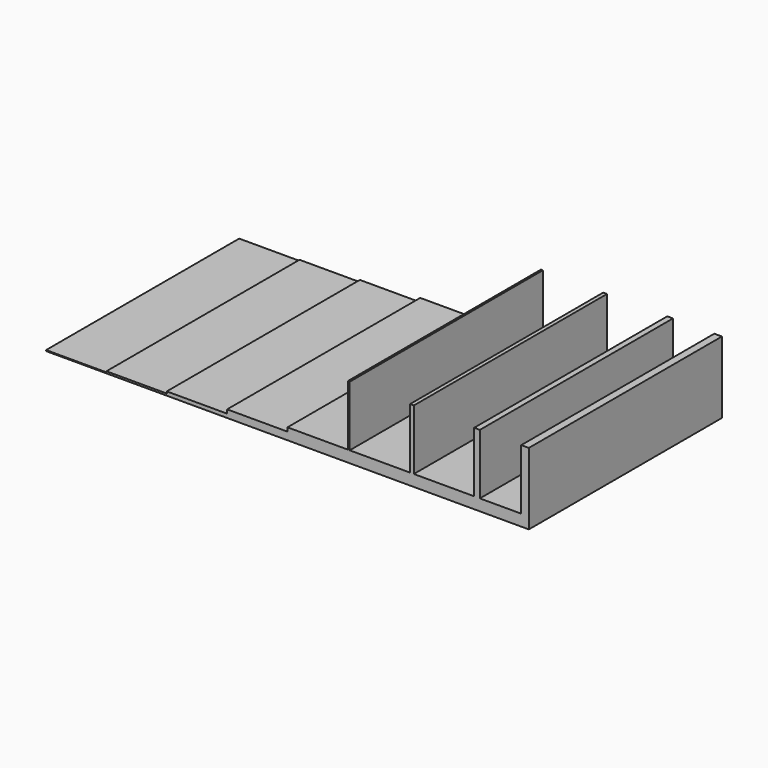
from build123d import *

# Parameters (mm, degrees)
F0_W      = 101.6
F0_H      = 50.8
F1_DEPTH  = 0.2
F2_W      = 88.9
F2_H      = 50.8
F3_DEPTH  = 0.2
F4_W      = 76.2
F4_H      = 50.8
F5_DEPTH  = 0.4
F6_W      = 63.5
F6_H      = 50.8
F7_DEPTH  = 0.8
F8_W      = 50.8
F8_H      = 50.8
F9_DEPTH  = 0.8
F10_W     = 0.4
F10_H     = 50.8
F10_W_2   = 0.8
F10_W_3   = 1.2
F10_W_4   = 1.6
F11_DEPTH = 12.7


with BuildPart() as f1:
    # F0 (on Top) → F1 (new body)
    with BuildSketch(Plane.XY):
        Rectangle(F0_W, F0_H)
    extrude(amount=F1_DEPTH)

    # F2 (on face) → F3 (join)
    with BuildSketch(Plane.XY.offset(0.2)):
        with Locations((6.35, 0)):
            Rectangle(F2_W, F2_H)
    extrude(amount=F3_DEPTH)

    # F4 (on face) → F5 (join)
    with BuildSketch(Plane.XY.offset(0.4)):
        with Locations((12.7, 0)):
            Rectangle(F4_W, F4_H)
    extrude(amount=F5_DEPTH)

    # F6 (on face) → F7 (join)
    with BuildSketch(Plane.XY.offset(0.8)):
        with Locations((19.05, 0)):
            Rectangle(F6_W, F6_H)
    extrude(amount=F7_DEPTH)

    # F8 (on face) → F9 (join)
    with BuildSketch(Plane.XY.offset(1.6)):
        with Locations((25.4, 0)):
            Rectangle(F8_W, F8_H)
    extrude(amount=F9_DEPTH)

    # F10 (on face) → F11 (join)
    with BuildSketch(Plane.XY.offset(2.4)):
        with Locations((12.9, 0)):
            Rectangle(F10_W, F10_H)
        with Locations((26.2, 0)):
            Rectangle(F10_W_2, F10_H)
        with Locations((39.9, 0)):
            Rectangle(F10_W_3, F10_H)
        with Locations((50, 0)):
            Rectangle(F10_W_4, F10_H)
    extrude(amount=F11_DEPTH)


solid = f1.part
